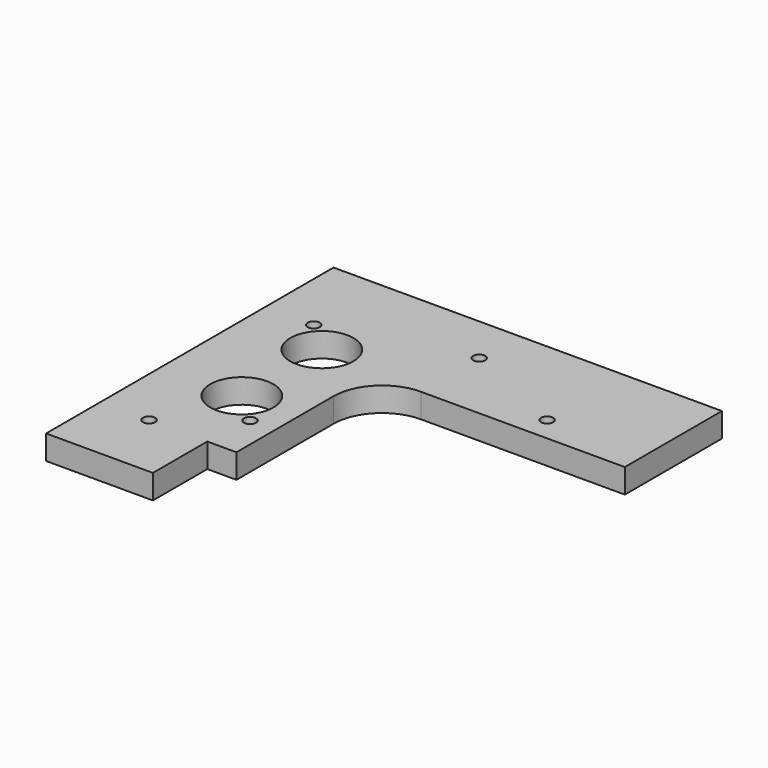
from build123d import *

# Parameters (mm, degrees)
F1_DEPTH = 6.35
F2_R     = 1.5875
F2_R_2   = 8.255
F3_DEPTH = 6.35
F4_W     = 101.6
F4_H     = 93.98
F5_DEPTH = 25.4


with BuildPart() as f1:
    # F0 (on Top) → F1 (new body)
    with BuildSketch(Plane.XY):
        with BuildLine():
            Line((0, 93.98), (0, 0))
            Line((0, 0), (27.94, 0))
            Line((27.94, 0), (27.94, 17.78))
            Line((27.94, 17.78), (35.56, 17.78))
            Line((35.56, 17.78), (35.56, 49.53))
            ThreePointArc((35.56, 49.53), (39.279744, 58.510256), (48.26, 62.23))
            Line((48.26, 62.23), (154.94, 62.23))
            ThreePointArc((154.94, 62.23), (163.920256, 58.510256), (167.64, 49.53))
            Line((167.64, 49.53), (167.64, 17.78))
            Line((167.64, 17.78), (175.26, 17.78))
            Line((175.26, 17.78), (175.26, 0))
            Line((175.26, 0), (203.2, 0))
            Line((203.2, 0), (203.2, 93.98))
            Line((203.2, 93.98), (0, 93.98))
        make_face()
    extrude(amount=F1_DEPTH)

    # F2 (on face) → F3 (cut)
    with BuildSketch(Plane.XY.offset(6.35)):
        with Locations((12.7, 17.78)):
            Circle(F2_R)
        with Locations((28.956, 30.48)):
            Circle(F2_R)
        with Locations((20.828, 37.973)):
            Circle(F2_R_2)
        with Locations((20.828, 64.135)):
            Circle(F2_R_2)
        with Locations((12.7, 71.628)):
            Circle(F2_R)
        with Locations((48.26, 81.28)):
            Circle(F2_R)
        with Locations((76.2, 68.58)):
            Circle(F2_R)
        with Locations((127, 68.58)):
            Circle(F2_R)
        with Locations((154.94, 81.28)):
            Circle(F2_R)
        with Locations((174.244, 71.628)):
            Circle(F2_R)
        with Locations((182.372, 64.135)):
            Circle(F2_R_2)
        with Locations((182.372, 37.973)):
            Circle(F2_R_2)
        with Locations((190.5, 30.48)):
            Circle(F2_R)
        with Locations((190.5, 17.78)):
            Circle(F2_R)
    extrude(amount=-F3_DEPTH, mode=Mode.SUBTRACT)

    # F4 (on Top) → F5 (cut)
    with BuildSketch(Plane.XY):
        with Locations((152.4, 46.99)):
            Rectangle(F4_W, F4_H)
    extrude(amount=F5_DEPTH, mode=Mode.SUBTRACT)


solid = f1.part
